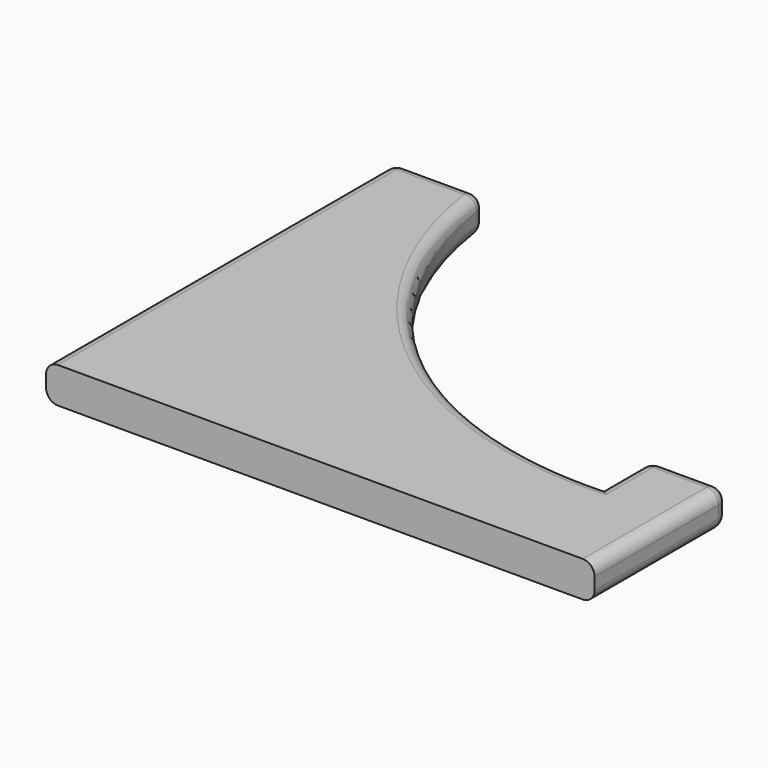
from build123d import *

# Parameters (mm, degrees)
F1_DEPTH = 6
F3_D     = 1
F3_DEPTH = 1
F3_TIP   = 0.3004303095
F4_R     = 2


with BuildPart() as f1:
    # F0 (on Top) → F1 (new body)
    with BuildSketch(Plane.XY):
        with BuildLine():
            Line((-43.1737847788, 64.6250816927), (-43.1737847788, -8.3749183073))
            Line((-43.1737847788, -8.3749183073), (48.8262152212, -8.3749183073))
            Line((48.8262152212, -8.3749183073), (48.8262152212, 19.6250816927))
            Line((48.8262152212, 19.6250816927), (35.8262152212, 19.6250816927))
            Line((35.8262152212, 19.6250816927), (35.8262152212, 9.6250816927))
            ThreePointArc((35.8262152212, 9.6250816927), (-6.8545907303, 24.6965074946), (-28.1737847788, 64.6250816927))
            Line((-28.1737847788, 64.6250816927), (-43.1737847788, 64.6250816927))
        make_face()
    extrude(amount=F1_DEPTH)

    # F3
    with Locations(Plane(origin=(0, 0, 0), x_dir=(1, 0, 0), z_dir=(0, 0, -1))):
        with Locations((-38.1737847788, -5.1250816927), (-38.1737847788, -28.1250816927), (-38.1737847788, -51.1250816927)):
            Hole(F3_D / 2, depth=F3_DEPTH)
            with Locations((0, 0, -(F3_DEPTH + F3_TIP / 2))):  # 118° drill point
                Cone(0, F3_D / 2, F3_TIP, mode=Mode.SUBTRACT)

    # F4
    f4_edges = [f1.edges().sort_by_distance(p)[0] for p in [
        (48.826215, 5.625082, 6),
        (48.826215, 5.625082, 0),
        (48.826215, 19.625082, 3),
        (42.326215, 19.625082, 0),
        (42.326215, 19.625082, 6),
        (35.826215, 19.625082, 3),
        (35.826215, 14.625082, 6),
        (35.826215, 14.625082, 0),
        (-6.854591, 24.696507, 0),
        (-6.854591, 24.696507, 6),
        (-35.673785, 64.625082, 0),
        (-35.673785, 64.625082, 6),
        (-43.173785, 64.625082, 3),
        (-43.173785, 28.125082, 0),
        (-43.173785, 28.125082, 6),
        (-28.173785, 64.625082, 3),
    ]]
    fillet(f4_edges, radius=F4_R)


solid = f1.part
